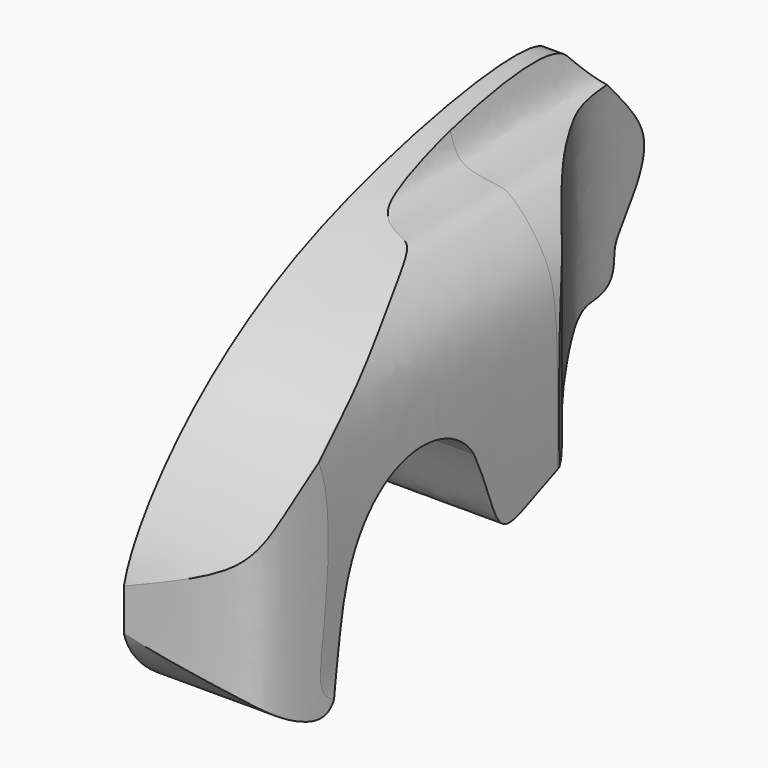
from build123d import *

# Parameters (mm, degrees)
PAD_DEPTH            = 18
POCKET_DEPTH         = 219.744672
POCKET_DEPTH_BACK    = -240.714443
POCKET001_DEPTH      = 53.217233
POCKET001_DEPTH_BACK = -0.001


with BuildPart() as part:
    # Sketch002 (on DatumPlane) → Pad (new body)
    with BuildSketch(Plane.YZ.offset(20)):
        with BuildLine():
            add(Edge.make_bspline(
                [(19.414431, -4.936431), (27.274858, -13.756379), (30.073746, -15.75305), (28.857208, -22.183604), (27.027403, -24.040257), (25.412519, -26.688589), (24.758066, -27.455353), (24.143541, -28.431364), (24.396579, -32.226956), (21.179363, -33.275265), (18.86586, -32.66074), (17.33866, -33.460439), (6.464352, -37.513731), (-5.050001, -42.095608), (-10.280538, -44.881748), (-9.874028, -40.51178), (-13.73586, -32.788118)],
                knots=[0, 0, 0, 0, 0, 0.142857, 0.142857, 0.285714, 0.285714, 0.428571, 0.428571, 0.571429, 0.571429, 0.714286, 0.714286, 0.857143, 0.857143, 1, 1, 1, 1, 1], degree=4))
            add(Edge.make_bspline(
                [(-13.73586, -32.788118), (-18.575396, -25.083852), (-32.81505, -26.612402), (-36.515749, -48.897058), (-36.354845, -53.884958), (-41.664553, -53.884958), (-49.964701, -47.11429), (-54.065178, -38.401421), (-36.398861, -19.093071), (-15.201869, -7.630321), (10.967207, -3.16524), (17.711359, -2.994933), (19.414431, -4.936431)],
                knots=[0, 0, 0, 0, 0, 0.2, 0.2, 0.4, 0.4, 0.6, 0.6, 0.8, 0.8, 1, 1, 1, 1, 1], degree=4))
        make_face()
    extrude(amount=PAD_DEPTH)

    # Sketch003 → Pocket (cut, two sides)
    with BuildSketch(Plane.XZ) as pocket_sk:
        with BuildLine():
            add(Edge.make_bspline(
                [(22.1195, -2.27017), (23.2882, -7.60561), (24.6093, -9.38408), (29.3858, -9.84141), (31.1135, -10.2479), (35.9408, -16.0407), (37.2619, -22.9005), (36.9375, -47.8178), (36.7556, -53.3749), (42.2136, -56.8619), (53.8003, -47.1101), (52.3579, -5.28001), (33.1944, 10.1744), (22.1195, -2.27017)],
                knots=[0, 0, 0, 0, 0.090909, 0.181818, 0.272727, 0.363636, 0.454545, 0.545455, 0.636364, 0.727273, 0.818182, 0.909091, 1, 1, 1, 1], degree=3))
        make_face()
    extrude(amount=-POCKET_DEPTH, mode=Mode.SUBTRACT)
    extrude(pocket_sk.sketch, amount=-POCKET_DEPTH_BACK, mode=Mode.SUBTRACT)

    # Sketch004 → Pocket001 (cut, two sides)
    with BuildSketch(Plane.XY) as pocket001_sk:
        with BuildLine():
            add(Edge.make_bspline(
                [(25.280836, 34.987415), (24.526026, 20.411077), (26.109326, 15.661377), (34.138526, 3.447867), (39.817612, -0.991854), (37.831963, -33.583393), (36.174126, -43.935923), (34.025426, -47.894023), (20.568026, -49.929523), (12.651826, -50.268823), (12.764926, -53.435323), (70.521891, -65.281902), (55.790717, 51.150006), (26.095682, 35.567093)],
                knots=[0, 0, 0, 0, 0.090909, 0.181818, 0.272727, 0.363636, 0.454545, 0.545455, 0.636364, 0.727273, 0.818182, 0.909091, 1, 1, 1, 1], degree=3))
            Line((26.095682, 35.567093), (25.280836, 34.987415))
        make_face()
    extrude(amount=-POCKET001_DEPTH, mode=Mode.SUBTRACT)
    extrude(pocket001_sk.sketch, amount=-POCKET001_DEPTH_BACK, mode=Mode.SUBTRACT)


solid = part.part
